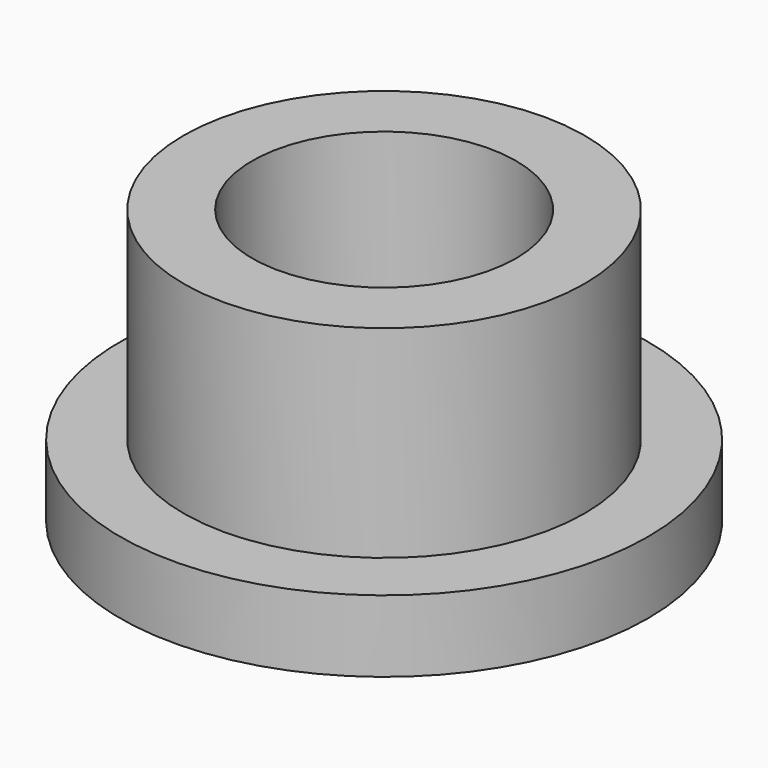
from build123d import *

# Parameters (mm, degrees)
SKETCH_R     = 6.35
PAD_DEPTH    = 1.7272
SKETCH001_R  = 4.826
PAD001_DEPTH = 4.8641
SKETCH002_R  = 3.175
POCKET_DEPTH = 6.5923


with BuildPart() as part:
    # Sketch → Pad (new body)
    with BuildSketch(Plane.XY):
        Circle(SKETCH_R)
    extrude(amount=PAD_DEPTH)

    # Sketch001 (on Face3 of Pad) → Pad001 (join)
    with BuildSketch(Plane.XY.offset(1.7272)):
        Circle(SKETCH001_R)
    extrude(amount=PAD001_DEPTH)

    # Sketch002 (on Face5 of Pad001) → Pocket (cut, through all)
    with BuildSketch(Plane.XY.offset(6.5913)):
        Circle(SKETCH002_R)
    extrude(amount=-POCKET_DEPTH, mode=Mode.SUBTRACT)


solid = part.part
